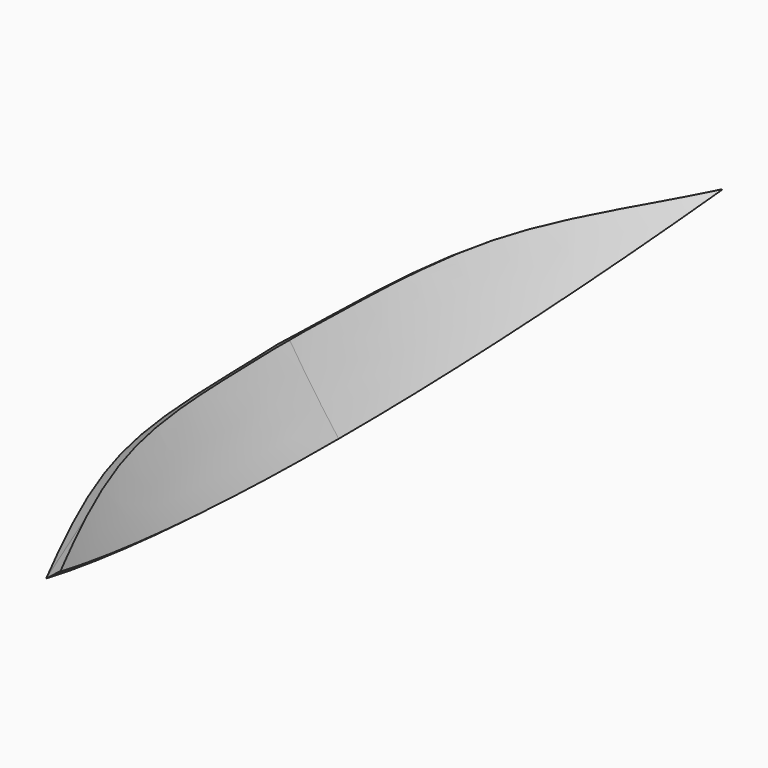
from build123d import *

# Parameters (mm, degrees)
F6_DEPTH = 19


with BuildPart() as f5:
    # F5: sweep along a path in F2
    with BuildLine(Plane(origin=(-156.9128723683, 0, 121.0798651188), x_dir=(0, 1, 0), z_dir=(0.7917022321, 0, -0.6109071744))) as f5_path:
        ThreePointArc((0, -723.3381067993), (153.2482539983, -707.5144974892), (300.03, -660.7113671899))
    # F0 (on Front) → F5 (sweep)
    with BuildSketch(Plane.XZ):
        with BuildLine():
            Line((-625.9692876951, -394.6675193912), (-634.4283321235, -400.0008642479))
            ThreePointArc((-634.4283321235, -400.0008642479), (-617.1560796043, -426.1670721764), (-598.805311294, -451.5885286033))
            Line((-598.805311294, -451.5885286033), (-590.8212404767, -445.567348222))
            ThreePointArc((-590.8212404767, -445.567348222), (-608.9273318763, -420.4848445474), (-625.9692876951, -394.6675193912))
        make_face()
    sweep(path=f5_path.line)

    # F4 (on 3pt) → F6 (cut, symmetric)
    with BuildSketch(Plane(origin=(-593.1662002197, 143.328193903, -409.6012519616), x_dir=(-0.1604734695, -0.980800128, -0.1108123389), z_dir=(-0.8070756825, 0.1950156632, -0.5573129586))):
        with BuildLine():
            add(Edge.make_bspline(
                [(146.1339469779, 31.3459994524), (90.7328605324, 29.650500126), (-17.5735954351, 33.4542379482), (-114.0268957899, -0.1560465685), (-159.7693573046, -12.2861504718)],
                knots=[0, 0, 0, 0, 0.5135674958, 1, 1, 1, 1], degree=3))
            Line((146.1339469779, 31.3459994524), (148.5447883606, 94.4522917271))
            Line((148.5447883606, 94.4522917271), (-149.4097858667, 94.4522917271))
            Line((-149.4097858667, 94.4522917271), (-190.5195564032, 25.3297034651))
            Line((-190.5195564032, 25.3297034651), (-159.7693573046, -12.2861504718))
        make_face()
    extrude(amount=F6_DEPTH, both=True, mode=Mode.SUBTRACT)

    # F7: F5 across face


with BuildPart() as f5_1:
    add(f5.part)
    add(f5.part.mirror(Plane(origin=(-612.8723427908, 0, -423.2090075375), x_dir=(1, 0, 0), z_dir=(0, -1, 0))))


solid = f5_1.part
